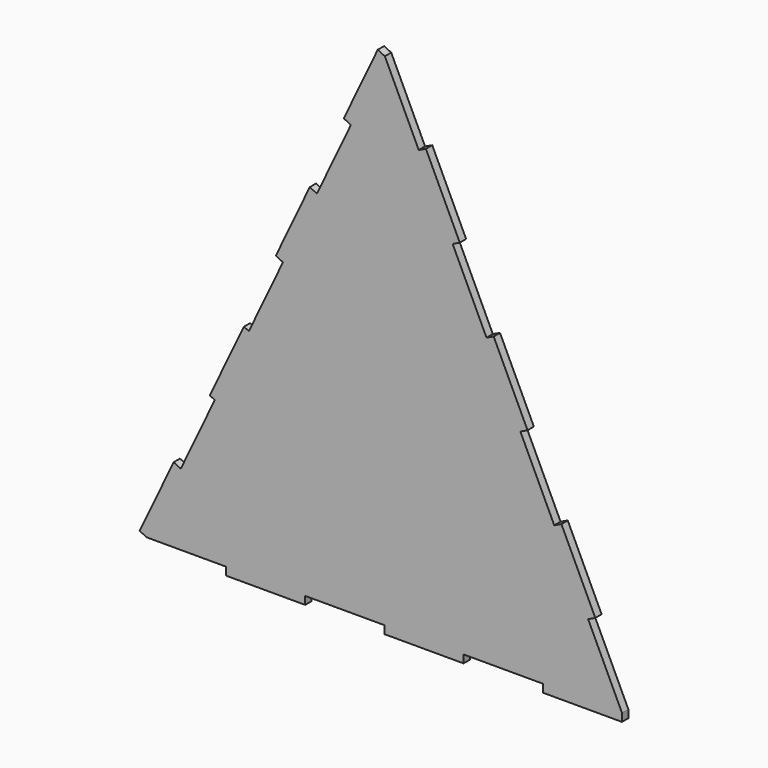
from build123d import *

# Parameters (mm, degrees)
F0_W     = 25.4
F0_H     = 2.54
F1_DEPTH = 2.54
F2_DEPTH = 2.54


with BuildPart() as f1:
    # F0 (on Front) → F1 (new body)
    with BuildSketch(Plane.XZ):
        Polygon((0, 86.929028), (-10.90126, 63.987308), (-21.80252, 41.045588), (-32.703781, 18.103867), (-43.605041, -4.837853), (-54.562222, -27.897259), (-65.463482, -50.838979), (-76.364742, -73.780699), (-50.964742, -73.780699), (-25.564742, -73.780699), (-0.152042, -73.780699), (25.247958, -73.780699), (50.647958, -73.780699), (76.060658, -73.780699), (65.19485, -50.822167), (54.329041, -27.863634), (43.463233, -4.905102), (32.597425, 18.053431), (21.731617, 41.011963), (10.865808, 63.970496), align=None)
        Polygon((-13.195432, 65.077434), (-10.90126, 63.987308), (0, 86.929028), (-2.294172, 88.019154), align=None)
        Polygon((-32.703781, 18.103867), (-21.80252, 41.045588), (-24.096692, 42.135714), (-34.997953, 19.193993), align=None)
        Polygon((13.161662, 65.057076), (10.865808, 63.970496), (21.731617, 41.011963), (24.02747, 42.098544), align=None)
        Polygon((-54.562222, -27.897259), (-43.605041, -4.837853), (-45.272266, -4.189892), (-56.173526, -27.131612), align=None)
        Polygon((34.893278, 19.140012), (32.597425, 18.053431), (43.463233, -4.905102), (45.759086, -3.818521), align=None)
        Polygon((-76.364742, -73.780699), (-65.463482, -50.838979), (-67.757654, -49.748853), (-78.658914, -72.690573), align=None)
        Polygon((56.624895, -26.777053), (54.329041, -27.863634), (65.19485, -50.822167), (67.490703, -49.735586), align=None)
        with Locations((-38.264742, -75.050699)):
            Rectangle(F0_W, F0_H)
        Polygon((76.047958, -76.320699), (76.060658, -73.780699), (50.647958, -73.780699), (50.647958, -76.320699), align=None)
        with Locations((12.547958, -75.050699)):
            Rectangle(F0_W, F0_H)
    extrude(amount=F1_DEPTH)

    # F0 (on Front) → F2 (join)
    with BuildSketch(Plane.XZ):
        Polygon((0, 86.929028), (-10.90126, 63.987308), (-21.80252, 41.045588), (-32.703781, 18.103867), (-43.605041, -4.837853), (-54.562222, -27.897259), (-65.463482, -50.838979), (-76.364742, -73.780699), (-50.964742, -73.780699), (-25.564742, -73.780699), (-0.152042, -73.780699), (25.247958, -73.780699), (50.647958, -73.780699), (76.060658, -73.780699), (65.19485, -50.822167), (54.329041, -27.863634), (43.463233, -4.905102), (32.597425, 18.053431), (21.731617, 41.011963), (10.865808, 63.970496), align=None)
        Polygon((-13.195432, 65.077434), (-10.90126, 63.987308), (0, 86.929028), (-2.294172, 88.019154), align=None)
        Polygon((-32.703781, 18.103867), (-21.80252, 41.045588), (-24.096692, 42.135714), (-34.997953, 19.193993), align=None)
        Polygon((13.161662, 65.057076), (10.865808, 63.970496), (21.731617, 41.011963), (24.02747, 42.098544), align=None)
        Polygon((-54.562222, -27.897259), (-43.605041, -4.837853), (-45.272266, -4.189892), (-56.173526, -27.131612), align=None)
        Polygon((34.893278, 19.140012), (32.597425, 18.053431), (43.463233, -4.905102), (45.759086, -3.818521), align=None)
        Polygon((-76.364742, -73.780699), (-65.463482, -50.838979), (-67.757654, -49.748853), (-78.658914, -72.690573), align=None)
        Polygon((56.624895, -26.777053), (54.329041, -27.863634), (65.19485, -50.822167), (67.490703, -49.735586), align=None)
        with Locations((-38.264742, -75.050699)):
            Rectangle(F0_W, F0_H)
        Polygon((76.047958, -76.320699), (76.060658, -73.780699), (50.647958, -73.780699), (50.647958, -76.320699), align=None)
        with Locations((12.547958, -75.050699)):
            Rectangle(F0_W, F0_H)
    extrude(amount=F2_DEPTH)


solid = f1.part
